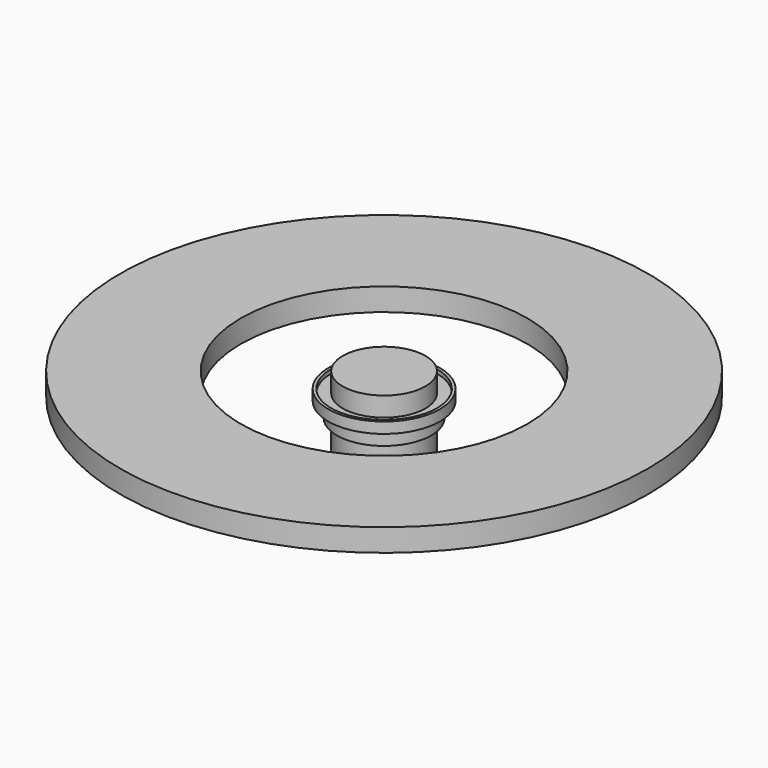
from build123d import *

# Parameters (mm, degrees)
F2_R     = 175
F2_R_2   = 95
F3_DEPTH = 15


with BuildPart() as f1:
    # F0 (on Front) → F1 (revolve)
    with BuildSketch(Plane.XZ):
        Polygon((27.4, 0), (0, 0), (0, -69.4), (27.5, -69.4), (27.5, -27.4), (31.3, -27.4), (31.3, -17.4), (37, -17.4), (37, -10.2), (35.1, -10.2), (35.1, -12.9), (27.4, -12.9), align=None)
    revolve(axis=Axis((0, 0, -34.7), (0, 0, -1)))


with BuildPart() as f3:
    # F2 (on Top) → F3 (new body)
    with BuildSketch(Plane.XY):
        Circle(F2_R)
        Circle(F2_R_2, mode=Mode.SUBTRACT)
        Circle(F2_R)
        Circle(F2_R_2, mode=Mode.SUBTRACT)
    extrude(amount=-F3_DEPTH)


solid = Compound([f1.part, f3.part])
